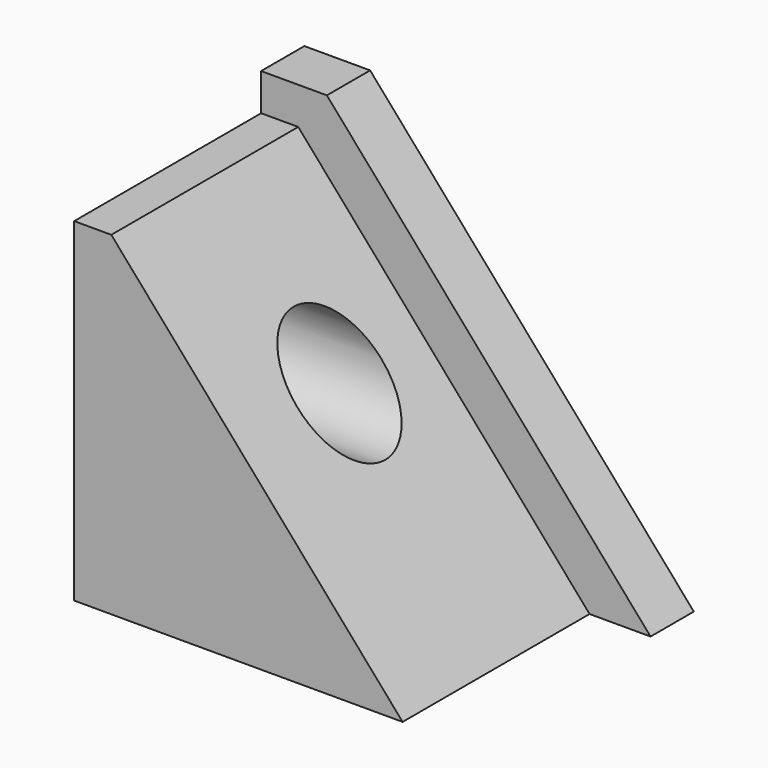
from build123d import *

# Parameters (mm, degrees)
F0_W     = 95.682062
F0_H     = 97.331755
F1_DEPTH = 68.072
F2_W     = 113.462061
F2_H     = 108.1464
F3_DEPTH = 15.748
F4_R     = 15.302995
F5_DEPTH = 96.266
F7_DEPTH = 68.072
F9_DEPTH = 32.766


with BuildPart() as f1:
    # F0 (on Front) → F1 (new body)
    with BuildSketch(Plane.XZ):
        with Locations((-5.590618, 8.5234)):
            Rectangle(F0_W, F0_H)
    extrude(amount=F1_DEPTH)

    # F2 (on face) → F3 (join)
    with BuildSketch(Plane(origin=(0, 0, 0), x_dir=(-1, 0, 0), z_dir=(0, 1, 0))):
        with Locations((-3.299381, 13.930723)):
            Rectangle(F2_W, F2_H)
    extrude(amount=F3_DEPTH)

    # F4 (on face) → F5 (cut)
    with BuildSketch(Plane.YZ.offset(42.250413)):
        with Locations((-30.33598, 15.580413)):
            Circle(F4_R)
    extrude(amount=-F5_DEPTH, mode=Mode.SUBTRACT)

    # F6 (on face) → F7 (cut)
    with BuildSketch(Plane.XZ.offset(68.072)):
        Polygon((-42.617012, 57.189278), (42.250413, -40.142477), (42.250413, 57.189278), align=None)
    extrude(amount=-F7_DEPTH, mode=Mode.SUBTRACT)

    # F8 (on face) → F9 (cut)
    with BuildSketch(Plane.XZ):
        Polygon((-34.266732, 68.003923), (60.030412, -40.142477), (60.030412, 68.003923), align=None)
    extrude(amount=-F9_DEPTH, mode=Mode.SUBTRACT)


solid = f1.part
